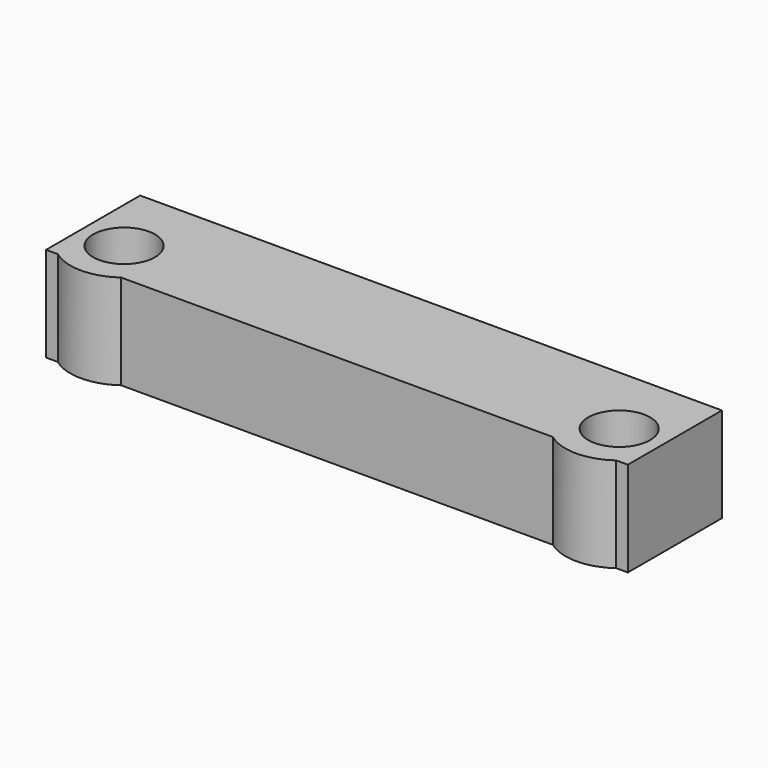
from build123d import *

# Parameters (mm, degrees)
SKETCH_W       = 28.2
SKETCH_H       = 4.7
SKETCH_R       = 1.5
PAD_DEPTH      = 4.6
PAD001_DEPTH   = 4.6
PAD001_FACE2_W = 28.2
PAD001_FACE2_H = 4.6
PAD002_DEPTH   = 1


with BuildPart() as part:
    # Sketch → Pad (new body)
    with BuildSketch(Plane.XY):
        Rectangle(SKETCH_W, SKETCH_H)
        with Locations((-12, -0.25)):
            Circle(SKETCH_R, mode=Mode.SUBTRACT)
        with Locations((12, -0.25)):
            Circle(SKETCH_R, mode=Mode.SUBTRACT)
    extrude(amount=PAD_DEPTH)

    # Sketch001 (on Face8 of Pad) → Pad001 (join)
    with BuildSketch(Plane.XY.offset(4.6)):
        with BuildLine():
            ThreePointArc((10.467029, -2.35), (12, -2.85), (13.532971, -2.35))
            Line((10.467029, -2.35), (13.532971, -2.35))
        make_face()
        with BuildLine():
            ThreePointArc((-13.532971, -2.35), (-12, -2.85), (-10.467029, -2.35))
            Line((-13.532971, -2.35), (-10.467029, -2.35))
        make_face()
    extrude(amount=-PAD001_DEPTH)

    # Pad001 Face2 → Pad002 (add)
    with BuildSketch(Plane(origin=(0, 2.35, 2.3), x_dir=(1, 0, 0), z_dir=(0, 1, 0))):
        Rectangle(PAD001_FACE2_W, PAD001_FACE2_H)
    extrude(amount=PAD002_DEPTH)


solid = part.part
